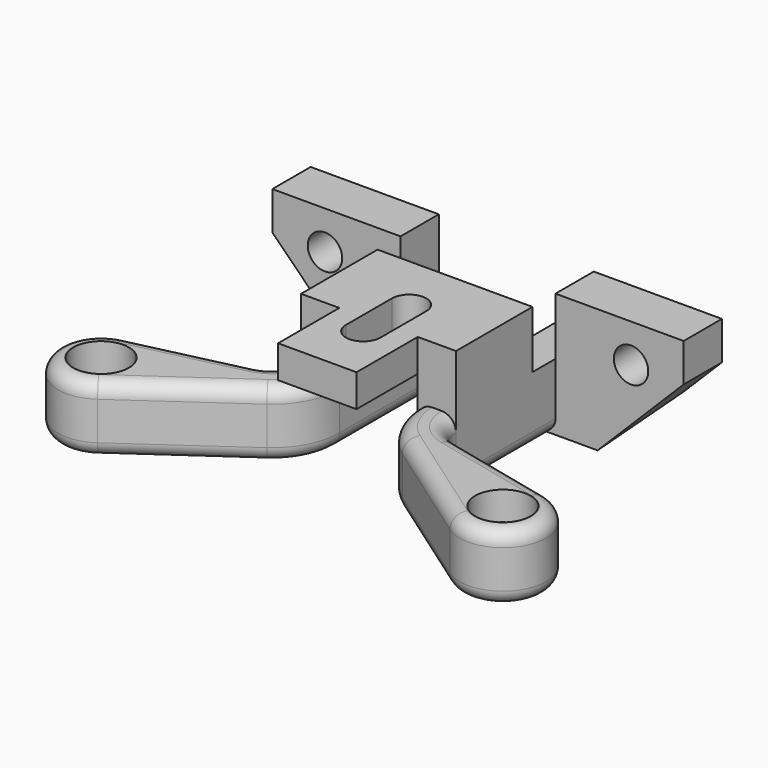
from build123d import *

# Parameters (mm, degrees)
SKETCH_R        = 1.8
PAD_DEPTH       = 7
SKETCH001_R     = 2.9
POCKET_DEPTH    = 3
SKETCH002_W     = 13.4
SKETCH002_H     = 5
PAD001_DEPTH    = 6
SKETCH005_R     = 1.8
POCKET002_DEPTH = 5
PAD002_DEPTH    = 6
SKETCH009_W     = 8.2
SKETCH009_H     = 18
POCKET006_DEPTH = 9.6
POCKET003_DEPTH = 47.001
POCKET004_DEPTH = 5
POCKET005_DEPTH = 13.001
FILLET_R        = 1.5


with BuildPart() as part:
    # Sketch → Pad (new body)
    with BuildSketch(Plane.XY):
        with BuildLine():
            Line((-21.5, 0), (-21.5, -5))
            Line((-21.5, -5), (-8.1, -5))
            Line((-8.1, -5), (-8.1, -18))
            ThreePointArc((-10.421049, -20.922161), (-8.750867, -19.865898), (-8.1, -18))
            Line((-10.421049, -20.922161), (-22.018426, -23.616758))
            ThreePointArc((-22.018426, -23.616758), (-25.108802, -29.835142), (-18.415416, -31.683738))
            Line((-7.079536, -23.730259), (-18.415416, -31.683738))
            ThreePointArc((-7.079536, -23.730259), (-4.889394, -21.2293), (-4.1, -18))
            Line((-4.1, -18), (-4.1, -26))
            Line((-4.1, -26), (4.1, -26))
            Line((4.1, -18), (4.1, -26))
            ThreePointArc((4.1, -18), (4.889394, -21.2293), (7.079536, -23.730259))
            Line((7.079536, -23.730259), (18.415416, -31.683738))
            ThreePointArc((18.415416, -31.683738), (25.108802, -29.835142), (22.018426, -23.616758))
            Line((10.421049, -20.922161), (22.018426, -23.616758))
            ThreePointArc((8.1, -18), (8.750867, -19.865898), (10.421049, -20.922161))
            Line((8.1, -5), (8.1, -18))
            Line((21.5, -5), (8.1, -5))
            Line((21.5, -5), (21.5, 0))
            Line((21.5, 0), (4.1, 0))
            Line((4.1, 0), (4.1, -8))
            Line((-4.1, -8), (4.1, -8))
            Line((-4.1, 0), (-4.1, -8))
            Line((-21.5, 0), (-4.1, 0))
        make_face()
        with Locations((-21, -28)):
            Circle(SKETCH_R, mode=Mode.SUBTRACT)
        with Locations((21, -28)):
            Circle(SKETCH_R, mode=Mode.SUBTRACT)
    extrude(amount=PAD_DEPTH)

    # Sketch001 (on Face28 of Pad) → Pocket (cut)
    with BuildSketch(Plane.XY.offset(7)):
        with Locations((-21, -28)):
            Circle(SKETCH001_R)
        with Locations((21, -28)):
            Circle(SKETCH001_R)
    extrude(amount=-POCKET_DEPTH, mode=Mode.SUBTRACT)

    # Sketch002 (on Face5 of Pocket) → Pad001 (join)
    with BuildSketch(Plane.XY.offset(7)):
        with Locations((14.8, -2.5)):
            Rectangle(SKETCH002_W, SKETCH002_H)
        with Locations((-14.8, -2.5)):
            Rectangle(SKETCH002_W, SKETCH002_H)
    extrude(amount=PAD001_DEPTH)

    # Sketch005 (on Face32 of Pad001) → Pocket002 (cut)
    with BuildSketch(Plane(origin=(0, 0, 0), x_dir=(-1, 0, 0), z_dir=(0, 1, 0))):
        with Locations((-16, 9)):
            Circle(SKETCH005_R)
        with Locations((16, 9)):
            Circle(SKETCH005_R)
    extrude(amount=-POCKET002_DEPTH, mode=Mode.SUBTRACT)

    # Sketch003 (on Face3 of Pad001) → Pad002 (join)
    with BuildSketch(Plane.XY.offset(7)):
        Polygon((-8.1, -8), (-8.1, -18), (-4.1, -18), (-4.1, -26), (4.1, -26), (4.1, -18), (8.1, -18), (8.1, -8), align=None)
    extrude(amount=PAD002_DEPTH)

    # Sketch009 (on Face1 of Pad002) → Pocket006 (cut)
    with BuildSketch(Plane(origin=(0, 0, 0), x_dir=(1, 0, 0), z_dir=(0, 0, -1))):
        with Locations((0, 17)):
            Rectangle(SKETCH009_W, SKETCH009_H)
    extrude(amount=-POCKET006_DEPTH, mode=Mode.SUBTRACT)

    # Sketch006 → Pocket003 (cut, through all)
    with BuildSketch(Plane(origin=(-21.5, 0, 0), x_dir=(0, -1, 0), z_dir=(-1, 0, 0))):
        Polygon((5, 0), (0, 0), (0, 5), align=None)
    extrude(amount=-POCKET003_DEPTH, mode=Mode.SUBTRACT)

    # Sketch007 (on Face37 of Pocket003) → Pocket004 (cut)
    with BuildSketch(Plane.XZ.offset(5)):
        Polygon((-21.5, 0), (-21.5, 9), (-12.5, 0), align=None)
        Polygon((21.5, 0), (21.5, 9), (12.5, 0), align=None)
    extrude(amount=-POCKET004_DEPTH, mode=Mode.SUBTRACT)

    # Sketch008 (on Face18 of Pocket004) → Pocket005 (cut, through all)
    with BuildSketch(Plane.XY.offset(13)):
        with BuildLine():
            ThreePointArc((1.8, -14), (0, -12.2), (-1.8, -14))
            Line((-1.8, -14), (-1.8, -20))
            ThreePointArc((-1.8, -20), (0, -21.8), (1.8, -20))
            Line((1.8, -14), (1.8, -20))
        make_face()
    extrude(amount=-POCKET005_DEPTH, mode=Mode.SUBTRACT)

    # Fillet
    fillet_edges = [part.edges().sort_by_distance(p)[0] for p in [
        (12.747476, -27.706999, 0),
        (-12.747476, -27.706999, 0),
        (-12.747476, -27.706999, 7),
        (12.747476, -27.706999, 7),
    ]]
    fillet(fillet_edges, radius=FILLET_R)


solid = part.part
